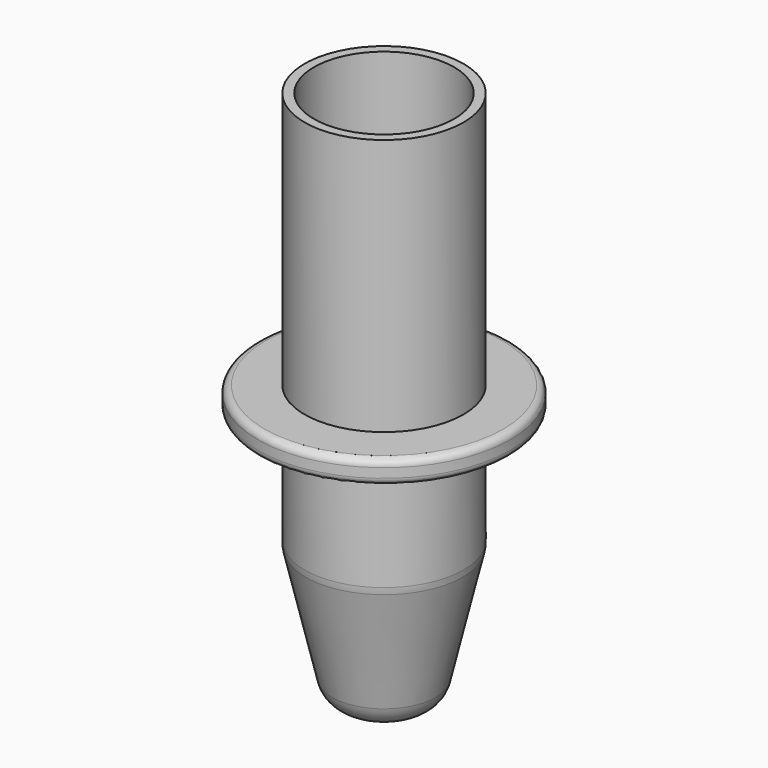
from build123d import *

# Parameters (mm, degrees)
F2_R = 1.25
F3_R = 0.3


with BuildPart() as f1:
    # F0 (on Front) → F1 (revolve)
    with BuildSketch(Plane.XZ):
        Polygon((0, -22.6), (0, -23), (2, -23), (3.4, -17), (3.4, -12), (5.4, -12), (5.4, -11), (3.4, -11), (3.4, 0), (3, 0), (3, -16.953952), (1.682589, -22.6), align=None)
    revolve(axis=Axis((0, 0, -11.5), (0, 0, -1)))

    # F2
    f2_edges = [f1.edges().sort_by_distance(p)[0] for p in [
        (-2, 0, -23),
        (-3.4, 0, -17),
    ]]
    fillet(f2_edges, radius=F2_R)

    # F3
    f3_edges = [f1.edges().sort_by_distance(p)[0] for p in [
        (-5.4, 0, -11),
        (-5.4, 0, -12),
    ]]
    fillet(f3_edges, radius=F3_R)


solid = f1.part
